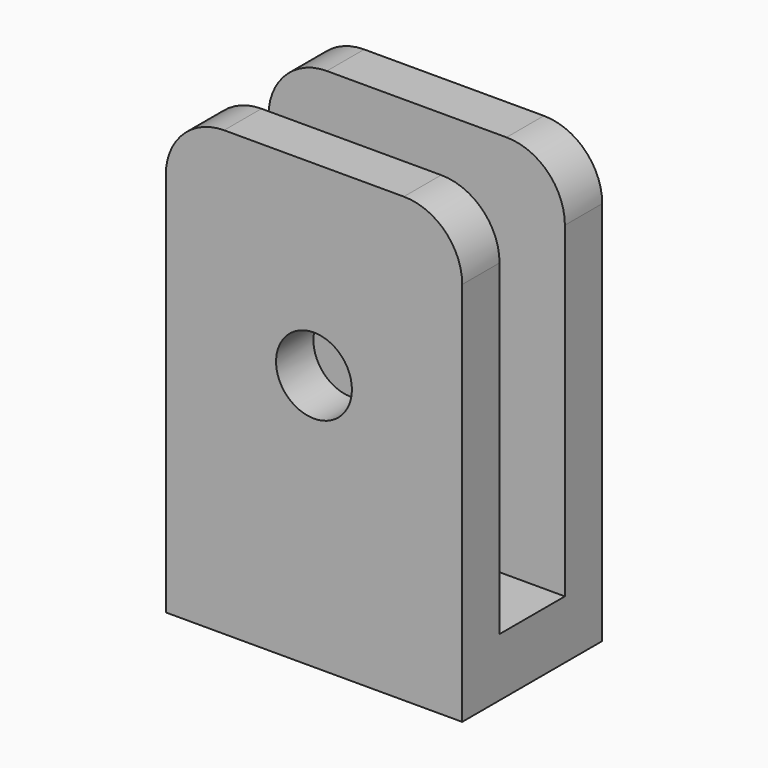
from build123d import *

# Parameters (mm, degrees)
F0_W     = 25.4
F0_H     = 15
F1_DEPTH = 38
F2_W     = 7
F2_H     = 33
F3_DEPTH = 25.4
F4_R     = 5
F5_R     = 3.25
F6_DEPTH = 25


with BuildPart() as f1:
    # F0 (on Top) → F1 (new body)
    with BuildSketch(Plane.XY):
        Rectangle(F0_W, F0_H)
    extrude(amount=F1_DEPTH)

    # F2 (on face) → F3 (cut, through all)
    with BuildSketch(Plane.YZ.offset(12.7)):
        with Locations((0, 21.5)):
            Rectangle(F2_W, F2_H)
    extrude(amount=-F3_DEPTH, mode=Mode.SUBTRACT)

    # F4
    f4_edges = [f1.edges().sort_by_distance(p)[0] for p in [
        (12.7, 5.5, 38),
        (12.7, -5.5, 38),
        (-12.7, -5.5, 38),
        (-12.7, 5.5, 38),
    ]]
    fillet(f4_edges, radius=F4_R)

    # F5 (on face) → F6 (cut)
    with BuildSketch(Plane.XZ.offset(7.5)):
        with Locations((0, 22)):
            Circle(F5_R)
    extrude(amount=-F6_DEPTH, mode=Mode.SUBTRACT)


solid = f1.part
